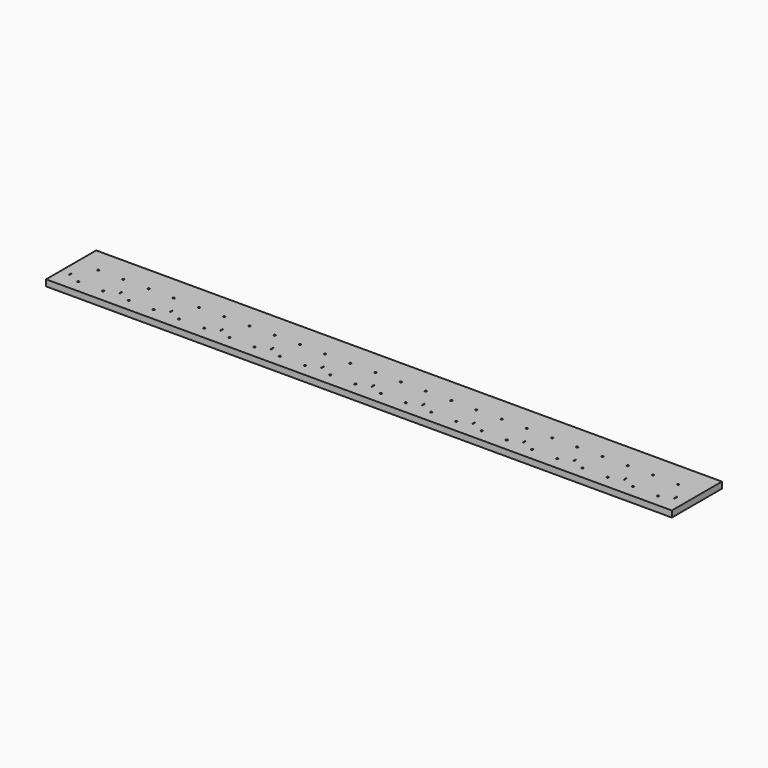
from build123d import *

# Parameters (mm, degrees)
F0_W     = 1000
F0_H     = 100
F1_DEPTH = 10
F2_W     = 0.3
F2_H     = 5
F3_DEPTH = 0.8
F4_R     = 1.5
F5_DEPTH = 10.001


with BuildPart() as f1:
    # F0 (on Top) → F1 (new body)
    with BuildSketch(Plane.XY):
        with Locations((500, 50)):
            Rectangle(F0_W, F0_H)
    extrude(amount=F1_DEPTH)

    # F2 (on face) → F3 (join)
    with BuildSketch(Plane.XY.offset(10)):
        with Locations((15.15, 29.5)):
            Rectangle(F2_W, F2_H)
        with Locations((95.75, 29.5)):
            Rectangle(F2_W, F2_H)
        with Locations((176.35, 29.5)):
            Rectangle(F2_W, F2_H)
        with Locations((256.95, 29.5)):
            Rectangle(F2_W, F2_H)
        with Locations((337.55, 29.5)):
            Rectangle(F2_W, F2_H)
        with Locations((418.15, 29.5)):
            Rectangle(F2_W, F2_H)
        with Locations((498.75, 29.5)):
            Rectangle(F2_W, F2_H)
        with Locations((579.35, 29.5)):
            Rectangle(F2_W, F2_H)
        with Locations((659.95, 29.5)):
            Rectangle(F2_W, F2_H)
        with Locations((740.55, 29.5)):
            Rectangle(F2_W, F2_H)
        with Locations((821.15, 29.5)):
            Rectangle(F2_W, F2_H)
        with Locations((901.75, 29.5)):
            Rectangle(F2_W, F2_H)
        with Locations((982.35, 29.5)):
            Rectangle(F2_W, F2_H)
    extrude(amount=F3_DEPTH)

    # F4 (on face) → F5 (cut, through all)
    with BuildSketch(Plane.XY.offset(10)):
        with Locations((35.3, 20)):
            Circle(F4_R)
        with Locations((75.3, 20)):
            Circle(F4_R)
        with Locations((35.3, 60)):
            Circle(F4_R)
        with Locations((75.3, 60)):
            Circle(F4_R)
        with Locations((115.9, 20)):
            Circle(F4_R)
        with Locations((115.9, 60)):
            Circle(F4_R)
        with Locations((155.9, 60)):
            Circle(F4_R)
        with Locations((155.9, 20)):
            Circle(F4_R)
        with Locations((196.5, 20)):
            Circle(F4_R)
        with Locations((196.5, 60)):
            Circle(F4_R)
        with Locations((236.5, 60)):
            Circle(F4_R)
        with Locations((236.5, 20)):
            Circle(F4_R)
        with Locations((277.1, 20)):
            Circle(F4_R)
        with Locations((277.1, 60)):
            Circle(F4_R)
        with Locations((317.1, 60)):
            Circle(F4_R)
        with Locations((317.1, 20)):
            Circle(F4_R)
        with Locations((357.7, 20)):
            Circle(F4_R)
        with Locations((357.7, 60)):
            Circle(F4_R)
        with Locations((397.7, 60)):
            Circle(F4_R)
        with Locations((397.7, 20)):
            Circle(F4_R)
        with Locations((438.3, 20)):
            Circle(F4_R)
        with Locations((438.3, 60)):
            Circle(F4_R)
        with Locations((478.3, 60)):
            Circle(F4_R)
        with Locations((478.3, 20)):
            Circle(F4_R)
        with Locations((518.9, 20)):
            Circle(F4_R)
        with Locations((518.9, 60)):
            Circle(F4_R)
        with Locations((558.9, 60)):
            Circle(F4_R)
        with Locations((558.9, 20)):
            Circle(F4_R)
        with Locations((599.5, 20)):
            Circle(F4_R)
        with Locations((599.5, 60)):
            Circle(F4_R)
        with Locations((639.5, 60)):
            Circle(F4_R)
        with Locations((639.5, 20)):
            Circle(F4_R)
        with Locations((680.1, 20)):
            Circle(F4_R)
        with Locations((680.1, 60)):
            Circle(F4_R)
        with Locations((720.1, 60)):
            Circle(F4_R)
        with Locations((720.1, 20)):
            Circle(F4_R)
        with Locations((760.7, 20)):
            Circle(F4_R)
        with Locations((760.7, 60)):
            Circle(F4_R)
        with Locations((800.7, 60)):
            Circle(F4_R)
        with Locations((800.7, 20)):
            Circle(F4_R)
        with Locations((841.3, 20)):
            Circle(F4_R)
        with Locations((841.3, 60)):
            Circle(F4_R)
        with Locations((881.3, 60)):
            Circle(F4_R)
        with Locations((881.3, 20)):
            Circle(F4_R)
        with Locations((921.9, 20)):
            Circle(F4_R)
        with Locations((921.9, 60)):
            Circle(F4_R)
        with Locations((961.9, 60)):
            Circle(F4_R)
        with Locations((961.9, 20)):
            Circle(F4_R)
    extrude(amount=-F5_DEPTH, mode=Mode.SUBTRACT)


solid = f1.part
